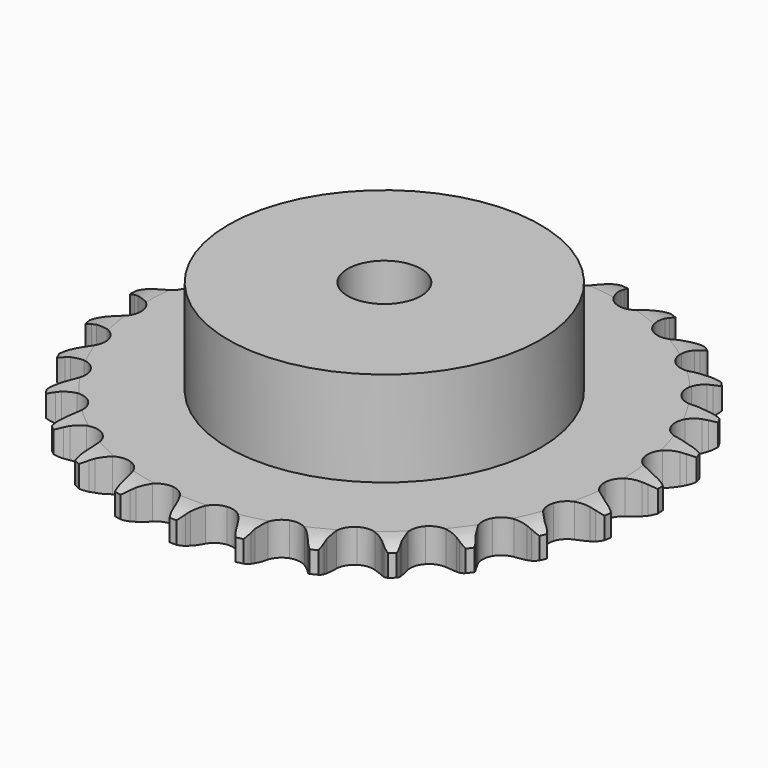
from build123d import *

# Parameters (mm, degrees)
PAD_DEPTH         = 9.1
SKETCH001_R       = 42.5
PAD001_DEPTH      = 35
SKETCH002_R       = 10
POCKET_DEPTH      = 0.001
POCKET_DEPTH_BACK = 35.001


with BuildPart() as part:
    # Sprocket → Pad (new body)
    with BuildSketch(Plane.XY):
        with BuildLine():
            ThreePointArc((-8.514292, 72.844425), (-7.272709, 71.413172), (-6.387729, 69.737814))
            Line((-6.387729, 69.737814), (-5.892963, 68.468562))
            ThreePointArc((-5.892963, 68.468562), (-5.105994, 66.802044), (-4.095745, 65.260615))
            ThreePointArc((-4.095745, 65.260615), (-2.286088, 63.764422), (0, 63.228459))
            ThreePointArc((0, 63.228459), (2.286088, 63.764422), (4.095745, 65.260615))
            ThreePointArc((4.095745, 65.260615), (5.105994, 66.802044), (5.892963, 68.468562))
            Line((5.892963, 68.468562), (6.387729, 69.737814))
            ThreePointArc((6.387729, 69.737814), (7.272709, 71.413172), (8.514292, 72.844425))
            ThreePointArc((8.514292, 72.844425), (9.392338, 71.165423), (9.8671, 69.331134))
            Line((9.8671, 69.331134), (10.05582, 67.981994))
            ThreePointArc((10.05582, 67.981994), (10.43725, 66.178909), (11.06479, 64.446051))
            ThreePointArc((11.06479, 64.446051), (12.480622, 62.572852), (14.581486, 61.524128))
            ThreePointArc((14.581486, 61.524128), (16.929554, 61.518436), (19.035477, 62.556963))
            Line((19.035477, 62.556963), (21.524055, 65.263972))
            ThreePointArc((21.524055, 65.263972), (21.896732, 65.834381), (22.298194, 66.38491))
            ThreePointArc((22.298194, 66.38491), (23.545683, 67.811018), (25.083869, 68.917364))
            ThreePointArc((25.083869, 68.917364), (25.551042, 67.081127), (25.58999, 65.186794))
            Line((25.58999, 65.186794), (25.46249, 63.830499))
            ThreePointArc((25.46249, 63.830499), (25.41782, 61.988052), (25.628819, 60.157183))
            ThreePointArc((25.628819, 60.157183), (26.574498, 58.007963), (28.376881, 56.503015))
            ThreePointArc((28.376881, 56.503015), (30.660343, 55.955975), (32.949002, 56.480849))
            Line((32.949002, 56.480849), (35.994779, 58.540985))
            ThreePointArc((35.994779, 58.540985), (36.488956, 59.010073), (37.006557, 59.453179))
            ThreePointArc((37.006557, 59.453179), (38.549303, 60.553155), (40.301168, 61.274949))
            ThreePointArc((40.301168, 61.274949), (40.332283, 59.380471), (39.933318, 57.528218))
            Line((39.933318, 57.528218), (39.496472, 56.237885))
            ThreePointArc((39.496472, 56.237885), (39.028108, 54.455404), (38.811192, 52.625226))
            ThreePointArc((38.811192, 52.625226), (39.235736, 50.31585), (40.64247, 48.43581))
            ThreePointArc((40.64247, 48.43581), (42.738225, 47.376913), (45.086238, 47.359837))
            Line((45.086238, 47.359837), (48.525015, 48.662038))
            ThreePointArc((48.525015, 48.662038), (49.11405, 49.004516), (49.719887, 49.316312))
            ThreePointArc((49.719887, 49.316312), (51.474721, 50.030856), (53.34582, 50.329186))
            ThreePointArc((53.34582, 50.329186), (52.9392, 48.478598), (52.12383, 46.76828))
            Line((52.12383, 46.76828), (51.401188, 45.613472))
            ThreePointArc((51.401188, 45.613472), (50.53438, 43.98705), (49.901243, 42.256229))
            ThreePointArc((49.901243, 42.256229), (49.781765, 39.911197), (50.717014, 37.757418))
            ThreePointArc((50.717014, 37.757418), (52.512079, 36.243749), (54.792862, 35.685645))
            Line((54.792862, 35.685645), (58.439255, 36.159708))
            ThreePointArc((58.439255, 36.159708), (59.091394, 36.357113), (59.752805, 36.520789))
            ThreePointArc((59.752805, 36.520789), (61.625122, 36.81138), (63.514586, 36.670163))
            ThreePointArc((63.514586, 36.670163), (62.692152, 34.963231), (61.504334, 33.487053))
            Line((61.504334, 33.487053), (60.534853, 32.530026))
            ThreePointArc((60.534853, 32.530026), (59.316331, 31.147344), (58.301106, 29.609188))
            ThreePointArc((58.301106, 29.609188), (57.644047, 27.35492), (58.05739, 25.043513))
            ThreePointArc((58.05739, 25.043513), (59.454993, 23.156675), (61.54559, 22.08763))
            Line((61.54559, 22.08763), (65.20302, 21.707999))
            ThreePointArc((65.20302, 21.707999), (65.883105, 21.749689), (66.564434, 21.756421))
            ThreePointArc((66.564434, 21.756421), (68.453298, 21.607393), (70.259264, 21.034243))
            ThreePointArc((70.259264, 21.034243), (69.065352, 19.562988), (67.569122, 18.400529))
            Line((67.569122, 18.400529), (66.405069, 17.692877))
            ThreePointArc((66.405069, 17.692877), (64.900524, 16.628476), (63.557941, 15.365908))
            ThreePointArc((63.557941, 15.365908), (62.398723, 13.323933), (62.267877, 10.979507))
            ThreePointArc((62.267877, 10.979507), (63.192673, 8.821219), (64.980378, 7.298865))
            Line((64.980378, 7.298865), (68.451673, 6.086005))
            ThreePointArc((68.451673, 6.086005), (69.123041, 5.969734), (69.787557, 5.819159))
            ThreePointArc((69.787557, 5.819159), (71.591138, 5.238547), (73.216246, 4.264361))
            ThreePointArc((73.216246, 4.264361), (71.715222, 3.108098), (69.991242, 2.322029))
            Line((69.991242, 2.322029), (68.69537, 1.9019))
            ThreePointArc((68.69537, 1.9019), (66.985912, 1.213162), (65.388351, 0.294249))
            ThreePointArc((65.388351, 0.294249), (63.789467, -1.425352), (63.121487, -3.676408))
            ThreePointArc((63.121487, -3.676408), (63.523619, -5.989791), (64.912058, -7.883383))
            Line((64.912058, -7.883383), (68.010079, -9.864086))
            ThreePointArc((68.010079, -9.864086), (68.636536, -10.132051), (69.248415, -10.431815))
            ThreePointArc((69.248415, -10.431815), (70.869481, -11.412712), (72.226122, -12.735414))
            ThreePointArc((72.226122, -12.735414), (70.498906, -13.514349), (68.640115, -13.881653))
            Line((68.640115, -13.881653), (67.282285, -13.991608))
            ThreePointArc((67.282285, -13.991608), (65.460073, -14.267553), (63.693658, -14.793274))
            ThreePointArc((63.693658, -14.793274), (61.741305, -16.097795), (60.572201, -18.134127))
            ThreePointArc((60.572201, -18.134127), (60.429991, -20.47789), (61.344312, -22.640636))
            Line((61.344312, -22.640636), (63.902044, -25.282402))
            ThreePointArc((63.902044, -25.282402), (64.449818, -25.687615), (64.976073, -26.120408))
            ThreePointArc((64.976073, -26.120408), (66.327233, -27.448708), (67.342269, -29.048619))
            ThreePointArc((67.342269, -29.048619), (65.481976, -29.408235), (63.588583, -29.336971))
            Line((63.588583, -29.336971), (62.241996, -29.130825))
            ThreePointArc((62.241996, -29.130825), (60.405264, -28.979101), (58.565223, -29.083288))
            ThreePointArc((58.565223, -29.083288), (56.364653, -29.902401), (54.757452, -31.61423))
            ThreePointArc((54.757452, -31.61423), (54.078566, -33.862021), (54.469478, -36.177327))
            Line((54.469478, -36.177327), (56.349033, -39.337737))
            ThreePointArc((56.349033, -39.337737), (56.788593, -39.858353), (57.200854, -40.400842))
            ThreePointArc((57.200854, -40.400842), (58.209266, -42.004937), (58.827977, -43.795806))
            ThreePointArc((58.827977, -43.795806), (56.934895, -43.716715), (55.108973, -43.210726))
            Line((55.108973, -43.210726), (53.846224, -42.699592))
            ThreePointArc((53.846224, -42.699592), (52.093991, -42.128378), (50.279522, -41.805414))
            ThreePointArc((50.279522, -41.805414), (47.949369, -42.094962), (45.990715, -43.390001))
            ThreePointArc((45.990715, -43.390001), (44.811752, -45.420642), (44.65818, -47.763688))
            Line((44.65818, -47.763688), (45.758231, -51.272364))
            ThreePointArc((45.758231, -51.272364), (46.06588, -51.880316), (46.341922, -52.503257))
            ThreePointArc((46.341922, -52.503257), (46.953223, -54.296669), (47.142253, -56.181949))
            ThreePointArc((47.142253, -56.181949), (45.318439, -55.668415), (43.658424, -54.754979))
            Line((43.658424, -54.754979), (42.547588, -53.966413))
            ThreePointArc((42.547588, -53.966413), (40.974318, -53.006504), (39.283239, -52.2738))
            ThreePointArc((39.283239, -52.2738), (36.949121, -52.018172), (34.744606, -52.826607))
            ThreePointArc((34.744606, -52.826607), (33.129124, -54.530623), (32.439349, -56.775097))
            Line((32.439349, -56.775097), (32.700591, -60.442885))
            ThreePointArc((32.700591, -60.442885), (32.859744, -61.105399), (32.984685, -61.775208))
            ThreePointArc((32.984685, -61.775208), (33.165919, -63.661254), (32.915078, -65.53931))
            ThreePointArc((32.915078, -65.53931), (31.258855, -64.619017), (29.854239, -63.347377))
            Line((29.854239, -63.347377), (28.955201, -62.323891))
            ThreePointArc((28.955201, -62.323891), (27.645709, -61.027035), (26.169186, -59.924091))
            ThreePointArc((26.169186, -59.924091), (23.956937, -59.137069), (21.625407, -59.415317))
            ThreePointArc((21.625407, -59.415317), (19.660497, -60.700845), (18.471703, -62.725746))
            Line((18.471703, -62.725746), (17.880054, -66.354915))
            ThreePointArc((17.880054, -66.354915), (17.882131, -67.036273), (17.849235, -67.716841))
            ThreePointArc((17.849235, -67.716841), (17.590632, -69.593844), (16.913443, -71.363428))
            ThreePointArc((16.913443, -71.363428), (15.514097, -70.085991), (14.440603, -68.524701))
            Line((14.440603, -68.524701), (13.801832, -67.321471))
            ThreePointArc((13.801832, -67.321471), (12.826713, -65.757582), (11.644346, -64.343859))
            ThreePointArc((11.644346, -64.343859), (9.673227, -63.067872), (7.340376, -62.800931))
            ThreePointArc((7.340376, -62.800931), (5.131968, -63.598669), (3.508244, -65.294833))
            Line((3.508244, -65.294833), (2.095598, -68.689733))
            ThreePointArc((2.095598, -68.689733), (1.940487, -69.353205), (1.751529, -70.007842))
            ThreePointArc((1.751529, -70.007842), (1.067029, -71.774611), (0, -73.340326))
            ThreePointArc((0, -73.340326), (-1.067029, -71.774611), (-1.751529, -70.007842))
            Line((-1.751529, -70.007842), (-2.095598, -68.689733))
            ThreePointArc((-2.095598, -68.689733), (-2.683775, -66.943122), (-3.508244, -65.294833))
            ThreePointArc((-3.508244, -65.294833), (-5.131968, -63.598669), (-7.340376, -62.800931))
            ThreePointArc((-7.340376, -62.800931), (-9.673227, -63.067872), (-11.644346, -64.343859))
            Line((-11.644346, -64.343859), (-13.801832, -67.321471))
            ThreePointArc((-13.801832, -67.321471), (-14.105769, -67.931288), (-14.440603, -68.524701))
            ThreePointArc((-14.440603, -68.524701), (-15.514097, -70.085991), (-16.913443, -71.363428))
            ThreePointArc((-16.913443, -71.363428), (-17.590632, -69.593844), (-17.849235, -67.716841))
            Line((-17.849235, -67.716841), (-17.880054, -66.354915))
            ThreePointArc((-17.880054, -66.354915), (-18.04958, -64.51974), (-18.471703, -62.725746))
            ThreePointArc((-18.471703, -62.725746), (-19.660497, -60.700845), (-21.625407, -59.415317))
            ThreePointArc((-21.625407, -59.415317), (-23.956937, -59.137069), (-26.169186, -59.924091))
            Line((-26.169186, -59.924091), (-28.955201, -62.323891))
            ThreePointArc((-28.955201, -62.323891), (-29.391579, -62.847177), (-29.854239, -63.347377))
            ThreePointArc((-29.854239, -63.347377), (-31.258855, -64.619017), (-32.915078, -65.53931))
            ThreePointArc((-32.915078, -65.53931), (-33.165919, -63.661254), (-32.984685, -61.775208))
            Line((-32.984685, -61.775208), (-32.700591, -60.442885))
            ThreePointArc((-32.700591, -60.442885), (-32.442327, -58.618083), (-32.439349, -56.775097))
            ThreePointArc((-32.439349, -56.775097), (-33.129124, -54.530623), (-34.744606, -52.826607))
            ThreePointArc((-34.744606, -52.826607), (-36.949121, -52.018172), (-39.283239, -52.2738))
            Line((-39.283239, -52.2738), (-42.547588, -53.966413))
            ThreePointArc((-42.547588, -53.966413), (-43.092882, -54.374958), (-43.658424, -54.754979))
            ThreePointArc((-43.658424, -54.754979), (-45.318439, -55.668415), (-47.142253, -56.181949))
            ThreePointArc((-47.142253, -56.181949), (-46.953223, -54.296669), (-46.341922, -52.503257))
            Line((-46.341922, -52.503257), (-45.758231, -51.272364))
            ThreePointArc((-45.758231, -51.272364), (-45.0861, -49.556309), (-44.65818, -47.763688))
            ThreePointArc((-44.65818, -47.763688), (-44.811752, -45.420642), (-45.990715, -43.390001))
            ThreePointArc((-45.990715, -43.390001), (-47.949369, -42.094962), (-50.279522, -41.805414))
            Line((-50.279522, -41.805414), (-53.846224, -42.699592))
            ThreePointArc((-53.846224, -42.699592), (-54.471036, -42.971372), (-55.108973, -43.210726))
            ThreePointArc((-55.108973, -43.210726), (-56.934895, -43.716715), (-58.827977, -43.795806))
            ThreePointArc((-58.827977, -43.795806), (-58.209266, -42.004937), (-57.200854, -40.400842))
            Line((-57.200854, -40.400842), (-56.349033, -39.337737))
            ThreePointArc((-56.349033, -39.337737), (-55.29927, -37.822942), (-54.469478, -36.177327))
            ThreePointArc((-54.469478, -36.177327), (-54.078566, -33.862021), (-54.757452, -31.61423))
            ThreePointArc((-54.757452, -31.61423), (-56.364653, -29.902401), (-58.565223, -29.083288))
            Line((-58.565223, -29.083288), (-62.241996, -29.130825))
            ThreePointArc((-62.241996, -29.130825), (-62.912642, -29.251188), (-63.588583, -29.336971))
            ThreePointArc((-63.588583, -29.336971), (-65.481976, -29.408235), (-67.342269, -29.048619))
            ThreePointArc((-67.342269, -29.048619), (-66.327233, -27.448708), (-64.976073, -26.120408))
            Line((-64.976073, -26.120408), (-63.902044, -25.282402))
            ThreePointArc((-63.902044, -25.282402), (-62.531242, -24.050531), (-61.344312, -22.640636))
            ThreePointArc((-61.344312, -22.640636), (-60.429991, -20.47789), (-60.572201, -18.134127))
            ThreePointArc((-60.572201, -18.134127), (-61.741305, -16.097795), (-63.693658, -14.793274))
            Line((-63.693658, -14.793274), (-67.282285, -13.991608))
            ThreePointArc((-67.282285, -13.991608), (-67.962612, -13.954064), (-68.640115, -13.881653))
            ThreePointArc((-68.640115, -13.881653), (-70.498906, -13.514349), (-72.226122, -12.735414))
            ThreePointArc((-72.226122, -12.735414), (-70.869481, -11.412712), (-69.248415, -10.431815))
            Line((-69.248415, -10.431815), (-68.010079, -9.864086))
            ThreePointArc((-68.010079, -9.864086), (-66.392138, -8.981549), (-64.912058, -7.883383))
            ThreePointArc((-64.912058, -7.883383), (-63.523619, -5.989791), (-63.121487, -3.676408))
            ThreePointArc((-63.121487, -3.676408), (-63.789467, -1.425352), (-65.388351, 0.294249))
            Line((-65.388351, 0.294249), (-68.69537, 1.9019))
            ThreePointArc((-68.69537, 1.9019), (-69.3487, 2.095326), (-69.991242, 2.322029))
            ThreePointArc((-69.991242, 2.322029), (-71.715222, 3.108098), (-73.216246, 4.264361))
            ThreePointArc((-73.216246, 4.264361), (-71.591138, 5.238547), (-69.787557, 5.819159))
            Line((-69.787557, 5.819159), (-68.451673, 6.086005))
            ThreePointArc((-68.451673, 6.086005), (-66.673817, 6.571631), (-64.980378, 7.298865))
            ThreePointArc((-64.980378, 7.298865), (-63.192673, 8.821219), (-62.267877, 10.979507))
            ThreePointArc((-62.267877, 10.979507), (-62.398723, 13.323933), (-63.557941, 15.365908))
            Line((-63.557941, 15.365908), (-66.405069, 17.692877))
            ThreePointArc((-66.405069, 17.692877), (-66.996181, 18.031757), (-67.569122, 18.400529))
            ThreePointArc((-67.569122, 18.400529), (-69.065352, 19.562988), (-70.259264, 21.034243))
            ThreePointArc((-70.259264, 21.034243), (-68.453298, 21.607393), (-66.564434, 21.756421))
            Line((-66.564434, 21.756421), (-65.20302, 21.707999))
            ThreePointArc((-65.20302, 21.707999), (-63.361093, 21.770532), (-61.54559, 22.08763))
            ThreePointArc((-61.54559, 22.08763), (-59.454993, 23.156675), (-58.05739, 25.043513))
            ThreePointArc((-58.05739, 25.043513), (-57.644047, 27.35492), (-58.301106, 29.609188))
            Line((-58.301106, 29.609188), (-60.534853, 32.530026))
            ThreePointArc((-60.534853, 32.530026), (-61.031881, 32.996092), (-61.504334, 33.487053))
            ThreePointArc((-61.504334, 33.487053), (-62.692152, 34.963231), (-63.514586, 36.670163))
            ThreePointArc((-63.514586, 36.670163), (-61.625122, 36.81138), (-59.752805, 36.520789))
            Line((-59.752805, 36.520789), (-58.439255, 36.159708))
            ThreePointArc((-58.439255, 36.159708), (-56.632557, 35.795778), (-54.792862, 35.685645))
            ThreePointArc((-54.792862, 35.685645), (-52.512079, 36.243749), (-50.717014, 37.757418))
            ThreePointArc((-50.717014, 37.757418), (-49.781765, 39.911197), (-49.901243, 42.256229))
            Line((-49.901243, 42.256229), (-51.401188, 45.613472))
            ThreePointArc((-51.401188, 45.613472), (-51.777336, 46.181598), (-52.12383, 46.76828))
            ThreePointArc((-52.12383, 46.76828), (-52.9392, 48.478598), (-53.34582, 50.329186))
            ThreePointArc((-53.34582, 50.329186), (-51.474721, 50.030856), (-49.719887, 49.316312))
            Line((-49.719887, 49.316312), (-48.525015, 48.662038))
            ThreePointArc((-48.525015, 48.662038), (-46.850944, 47.891265), (-45.086238, 47.359837))
            ThreePointArc((-45.086238, 47.359837), (-42.738225, 47.376913), (-40.64247, 48.43581))
            ThreePointArc((-40.64247, 48.43581), (-39.235736, 50.31585), (-38.811192, 52.625226))
            Line((-38.811192, 52.625226), (-39.496472, 56.237885))
            ThreePointArc((-39.496472, 56.237885), (-39.731462, 56.877443), (-39.933318, 57.528218))
            ThreePointArc((-39.933318, 57.528218), (-40.332283, 59.380471), (-40.301168, 61.274949))
            ThreePointArc((-40.301168, 61.274949), (-38.549303, 60.553155), (-37.006557, 59.453179))
            Line((-37.006557, 59.453179), (-35.994779, 58.540985))
            ThreePointArc((-35.994779, 58.540985), (-34.543585, 57.404921), (-32.949002, 56.480849))
            ThreePointArc((-32.949002, 56.480849), (-30.660343, 55.955975), (-28.376881, 56.503015))
            ThreePointArc((-28.376881, 56.503015), (-26.574498, 58.007963), (-25.628819, 60.157183))
            Line((-25.628819, 60.157183), (-25.46249, 63.830499))
            ThreePointArc((-25.46249, 63.830499), (-25.543654, 64.507009), (-25.58999, 65.186794))
            ThreePointArc((-25.58999, 65.186794), (-25.551042, 67.081127), (-25.083869, 68.917364))
            ThreePointArc((-25.083869, 68.917364), (-23.545683, 67.811018), (-22.298194, 66.38491))
            Line((-22.298194, 66.38491), (-21.524055, 65.263972))
            ThreePointArc((-21.524055, 65.263972), (-20.373973, 63.823863), (-19.035477, 62.556963))
            ThreePointArc((-19.035477, 62.556963), (-16.929554, 61.518436), (-14.581486, 61.524128))
            ThreePointArc((-14.581486, 61.524128), (-12.480622, 62.572852), (-11.06479, 64.446051))
            Line((-11.06479, 64.446051), (-10.05582, 67.981994))
            ThreePointArc((-10.05582, 67.981994), (-9.978782, 68.658987), (-9.8671, 69.331134))
            ThreePointArc((-9.8671, 69.331134), (-9.392338, 71.165423), (-8.514292, 72.844425))
        make_face()
    extrude(amount=PAD_DEPTH)

    # Sketch → Groove (revolve, cut)
    with BuildSketch(Plane.XZ):
        with BuildLine():
            Line((65.025762, 0), (72, 0))
            Line((78.974238, 0), (72, 0))
            Line((78.974238, 9.1), (78.974238, 0))
            Line((72, 9.1), (78.974238, 9.1))
            Line((65.025762, 9.1), (72, 9.1))
            ThreePointArc((72, 7.5), (68.60347, 8.694871), (65.025762, 9.1))
            Line((72, 1.6), (72, 7.5))
            ThreePointArc((65.025762, 0), (68.60347, 0.405129), (72, 1.6))
        make_face()
    revolve(axis=Axis((0, 0, 0), (0, 0, 1)), mode=Mode.SUBTRACT)

    # Sketch001 → Pad001 (join)
    with BuildSketch(Plane.XY):
        Circle(SKETCH001_R)
    extrude(amount=PAD001_DEPTH)

    # Sketch002 → Pocket (cut, two sides)
    with BuildSketch(Plane.XY) as pocket_sk:
        Circle(SKETCH002_R)
    extrude(amount=-POCKET_DEPTH, mode=Mode.SUBTRACT)
    extrude(pocket_sk.sketch, amount=POCKET_DEPTH_BACK, mode=Mode.SUBTRACT)


solid = part.part
